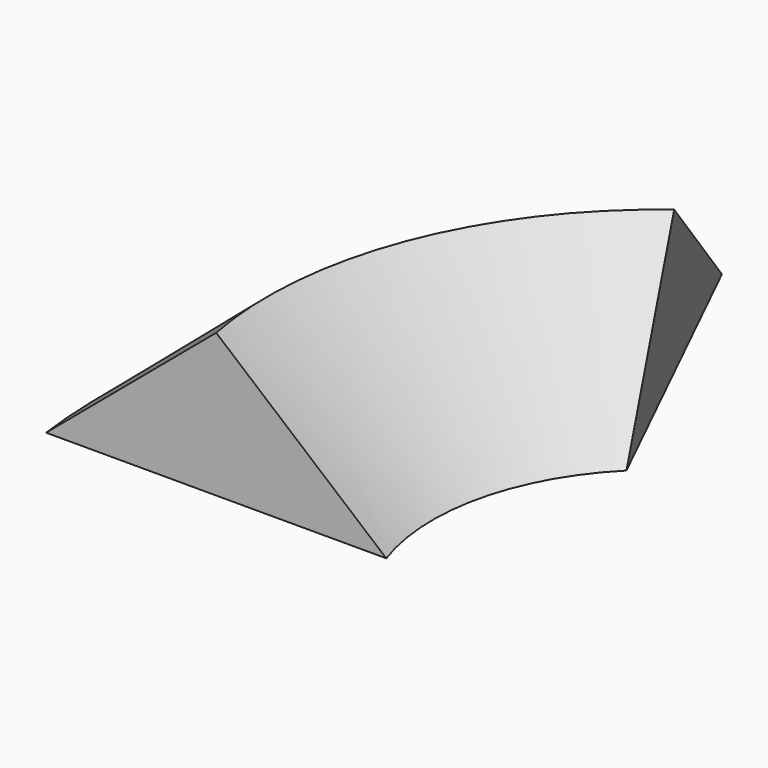
from build123d import *


with BuildPart() as f2:
    # F2: sweep along a path in F1
    with BuildLine(Plane.XY) as f2_path:
        ThreePointArc((35.780601, 67.640044), (14.319858, 37.192981), (12.253632, 0))
    # F0 (on Front) → F2 (sweep)
    with BuildSketch(Plane.XZ):
        Polygon((34.664501, 0), (0, 29.201098), (-34.664501, 0), align=None)
    sweep(path=f2_path.line)


solid = f2.part
